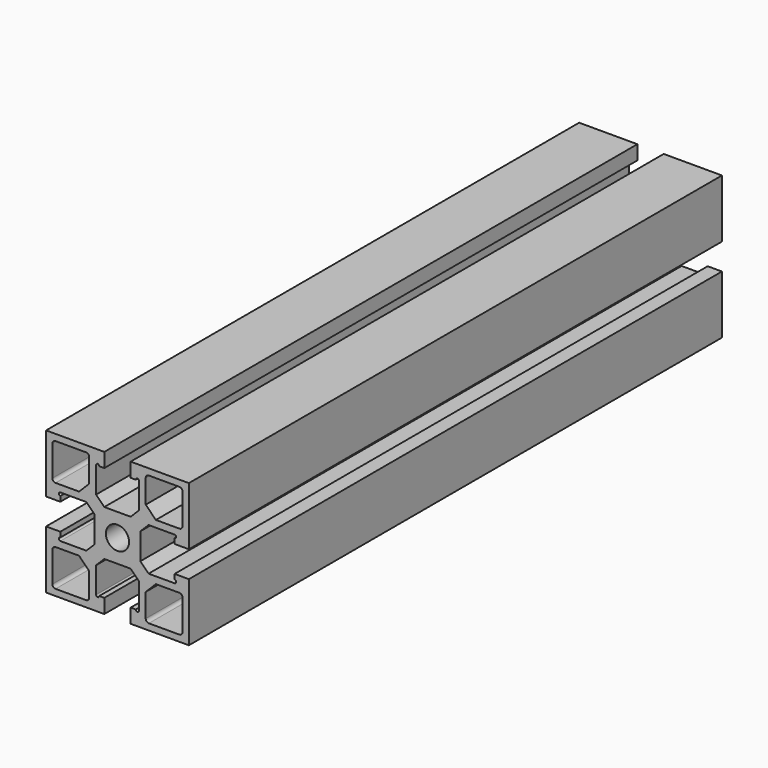
from build123d import *

# Parameters (mm, degrees)
F0_R     = 3.647768
F1_DEPTH = 210


with BuildPart() as f1:
    # F0 (on Front) → F1 (new body)
    with BuildSketch(Plane.XZ):
        with BuildLine():
            Line((-4.15, 22.5), (-22.5, 22.5))
            Line((-22.5, 22.5), (-22.5, 4.15))
            Line((-22.5, 4.15), (-18, 4.15))
            Line((-18, 4.15), (-18, 5.75))
            ThreePointArc((-18, 5.75), (-18.5, 6.25), (-18, 6.75))
            Line((-18, 6.75), (-9.8, 6.75))
            Line((-9.8, 6.75), (-7.2, 4.15))
            Line((-7.2, 4.15), (-7.2, -4.15))
            Line((-7.2, -4.15), (-9.8, -6.75))
            Line((-9.8, -6.75), (-18, -6.75))
            ThreePointArc((-18, -6.75), (-18.5, -6.25), (-18, -5.75))
            Line((-18, -5.75), (-18, -4.15))
            Line((-18, -4.15), (-22.5, -4.15))
            Line((-22.5, -4.15), (-22.5, -22.5))
            Line((-22.5, -22.5), (-4.15, -22.5))
            Line((-4.15, -22.5), (-4.15, -18))
            Line((-4.15, -18), (-5.75, -18))
            ThreePointArc((-5.75, -18), (-6.25, -18.5), (-6.75, -18))
            Line((-6.75, -18), (-6.75, -9.8))
            Line((-6.75, -9.8), (-4.15, -7.2))
            Line((-4.15, -7.2), (4.15, -7.2))
            Line((4.15, -7.2), (6.75, -9.8))
            Line((6.75, -9.8), (6.75, -18))
            ThreePointArc((6.75, -18), (6.25, -18.5), (5.75, -18))
            Line((5.75, -18), (4.15, -18))
            Line((4.15, -18), (4.15, -22.5))
            Line((4.15, -22.5), (22.5, -22.5))
            Line((22.5, -22.5), (22.5, -4.15))
            Line((22.5, -4.15), (18, -4.15))
            Line((18, -4.15), (18, -5.75))
            ThreePointArc((18, -5.75), (18.5, -6.25), (18, -6.75))
            Line((18, -6.75), (9.8, -6.75))
            Line((9.8, -6.75), (7.2, -4.15))
            Line((7.2, -4.15), (7.2, 4.15))
            Line((7.2, 4.15), (9.8, 6.75))
            Line((9.8, 6.75), (18, 6.75))
            ThreePointArc((18, 6.75), (18.5, 6.25), (18, 5.75))
            Line((18, 5.75), (18, 4.15))
            Line((18, 4.15), (22.5, 4.15))
            Line((22.5, 4.15), (22.5, 22.5))
            Line((22.5, 22.5), (4.15, 22.5))
            Line((4.15, 22.5), (4.15, 18))
            Line((4.15, 18), (5.75, 18))
            ThreePointArc((5.75, 18), (6.25, 18.5), (6.75, 18))
            Line((6.75, 18), (6.75, 9.8))
            Line((6.75, 9.8), (4.15, 7.2))
            Line((4.15, 7.2), (-4.15, 7.2))
            Line((-4.15, 7.2), (-6.75, 9.8))
            Line((-6.75, 9.8), (-6.75, 18))
            ThreePointArc((-6.75, 18), (-6.25, 18.5), (-5.75, 18))
            Line((-5.75, 18), (-4.15, 18))
            Line((-4.15, 18), (-4.15, 22.5))
        make_face()
        with BuildLine():
            Line((-8.9, -12.1), (-8.9, -19.5))
            ThreePointArc((-8.9, -19.5), (-9.192893, -20.207107), (-9.9, -20.5))
            Line((-9.9, -20.5), (-19.5, -20.5))
            ThreePointArc((-19.5, -20.5), (-20.207107, -20.207107), (-20.5, -19.5))
            Line((-20.5, -19.5), (-20.5, -9.9))
            ThreePointArc((-20.5, -9.9), (-20.207107, -9.192893), (-19.5, -8.9))
            Line((-19.5, -8.9), (-12.1, -8.9))
            Line((-12.1, -8.9), (-8.9, -12.1))
        make_face(mode=Mode.SUBTRACT)
        with BuildLine():
            Line((8.9, -12.1), (12.1, -8.9))
            Line((12.1, -8.9), (19.5, -8.9))
            ThreePointArc((19.5, -8.9), (20.207107, -9.192893), (20.5, -9.9))
            Line((20.5, -9.9), (20.5, -19.5))
            ThreePointArc((20.5, -19.5), (20.207107, -20.207107), (19.5, -20.5))
            Line((19.5, -20.5), (9.9, -20.5))
            ThreePointArc((9.9, -20.5), (9.192893, -20.207107), (8.9, -19.5))
            Line((8.9, -19.5), (8.9, -12.1))
        make_face(mode=Mode.SUBTRACT)
        with BuildLine():
            ThreePointArc((-20.5, 19.5), (-20.207107, 20.207107), (-19.5, 20.5))
            Line((-19.5, 20.5), (-9.9, 20.5))
            ThreePointArc((-9.9, 20.5), (-9.192893, 20.207107), (-8.9, 19.5))
            Line((-8.9, 19.5), (-8.9, 12.1))
            Line((-8.9, 12.1), (-12.1, 8.9))
            Line((-12.1, 8.9), (-19.5, 8.9))
            ThreePointArc((-19.5, 8.9), (-20.207107, 9.192893), (-20.5, 9.9))
            Line((-20.5, 9.9), (-20.5, 19.5))
        make_face(mode=Mode.SUBTRACT)
        Circle(F0_R, mode=Mode.SUBTRACT)
        with BuildLine():
            Line((12.1, 8.9), (8.9, 12.1))
            Line((8.9, 12.1), (8.9, 19.5))
            ThreePointArc((8.9, 19.5), (9.192893, 20.207107), (9.9, 20.5))
            Line((9.9, 20.5), (19.5, 20.5))
            ThreePointArc((19.5, 20.5), (20.207107, 20.207107), (20.5, 19.5))
            Line((20.5, 19.5), (20.5, 9.9))
            ThreePointArc((20.5, 9.9), (20.207107, 9.192893), (19.5, 8.9))
            Line((19.5, 8.9), (12.1, 8.9))
        make_face(mode=Mode.SUBTRACT)
    extrude(amount=F1_DEPTH)


solid = f1.part
